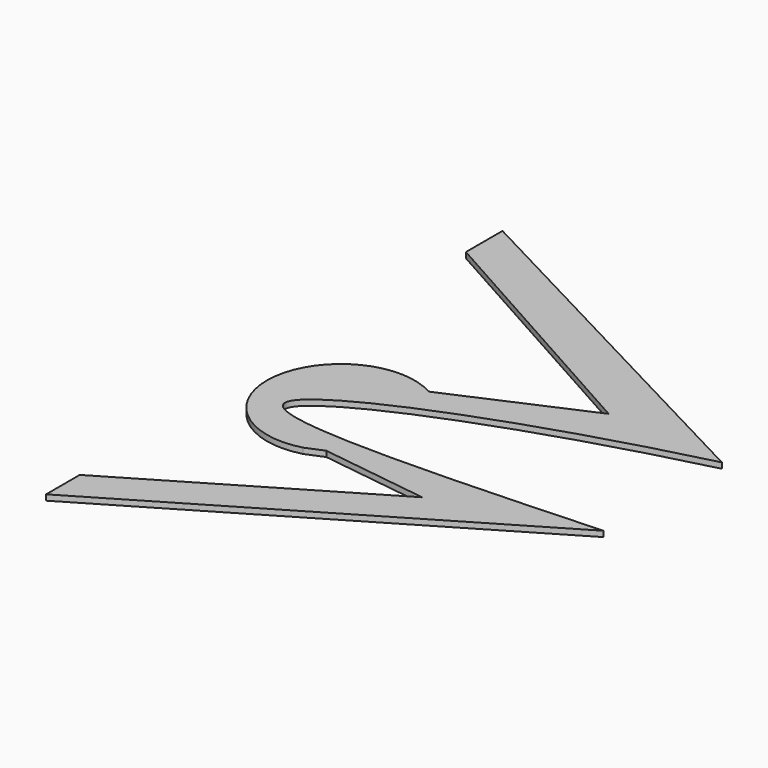
from build123d import *

# Parameters (mm, degrees)
F1_DEPTH = 2


with BuildPart() as f1:
    # F0 (on Top) → F1 (new body)
    with BuildSketch(Plane.XY):
        with BuildLine():
            add(Edge.make_bspline(
                [(-91.6036099134, 5.71869458), (-154.910440363, -9.9027774504), (-262.0281262764, -54.2071160334), (-157.9037835768, -50.2629770203), (-91.6036099134, -47.1001818306)],
                knots=[0.3313622072, 0.3313622072, 0.3313622072, 0.3313622072, 0.5006095241, 0.683224348, 0.683224348, 0.683224348, 0.683224348], degree=3))
            Line((-91.6036099134, 5.71869458), (-226.6409774689, 76.6244625735))
            Line((-226.6409774689, 76.6244625735), (-226.6409774689, 60.3104606271))
            Line((-226.6409774689, 60.3104606271), (-134.5508992672, 8.8887251914))
            Line((-134.5508992672, 8.8887251914), (-182.0986121893, -11.9680119678))
            ThreePointArc((-182.0986121893, -11.9680119678), (-221.3284847236, -31.4249569037), (-188.3358003152, -60.2179835043))
            Line((-188.3358003152, -60.2179835043), (-182.0986121893, -57.6333925128))
            Line((-182.0986121893, -57.6333925128), (-143.684377288, -62.8968811712))
            Line((-143.684377288, -62.8968811712), (-226.6409774689, -111.9654029608))
            Line((-226.6409774689, -111.9654029608), (-226.6409774689, -126.9742846489))
            Line((-226.6409774689, -126.9742846489), (-91.6036099134, -47.1001818306))
        make_face()
    extrude(amount=F1_DEPTH)


solid = f1.part
